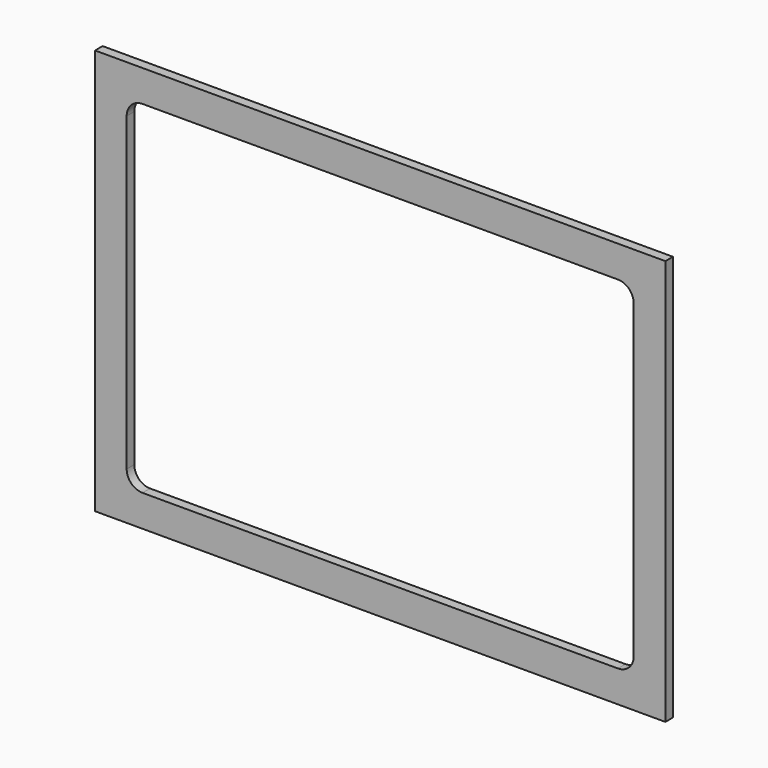
from build123d import *

# Parameters (mm, degrees)
F0_W     = 360.68
F0_H     = 256.54
F1_DEPTH = 6


with BuildPart() as f1:
    # F0 (on Front) → F1 (new body)
    with BuildSketch(Plane.XZ):
        Rectangle(F0_W, F0_H)
        with BuildLine():
            ThreePointArc((-160.34, 98.27), (-157.411068, 105.341068), (-150.34, 108.27))
            Line((-150.34, 108.27), (150.34, 108.27))
            ThreePointArc((150.34, 108.27), (157.411068, 105.341068), (160.34, 98.27))
            Line((160.34, 98.27), (160.34, -98.27))
            ThreePointArc((160.34, -98.27), (157.411068, -105.341068), (150.34, -108.27))
            Line((150.34, -108.27), (-150.34, -108.27))
            ThreePointArc((-150.34, -108.27), (-157.411068, -105.341068), (-160.34, -98.27))
            Line((-160.34, -98.27), (-160.34, 98.27))
        make_face(mode=Mode.SUBTRACT)
    extrude(amount=-F1_DEPTH)


solid = f1.part
